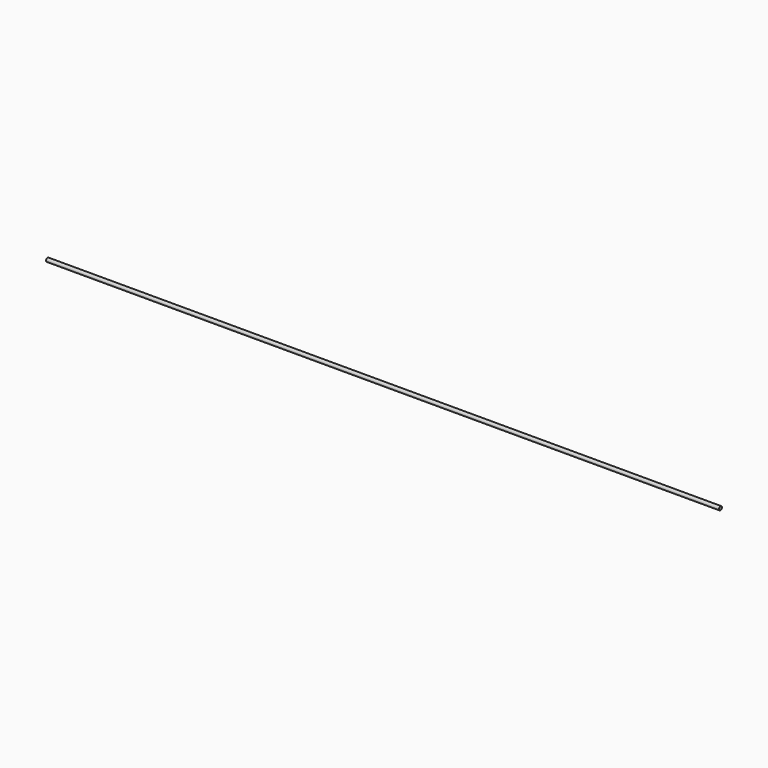
from build123d import *

# Parameters (mm, degrees)
F0_R     = 0.6223
F1_DEPTH = 228.6


with BuildPart() as f1:
    # F0 (on Right) → F1 (new body)
    with BuildSketch(Plane.YZ):
        Circle(F0_R)
    extrude(amount=-F1_DEPTH)


with BuildPart() as f2_1:
    # F2: copy of F1
    add(f1.part)


with BuildPart() as f3_1:
    # F3: copy of F1
    add(f1.part)


solid = f1.part
